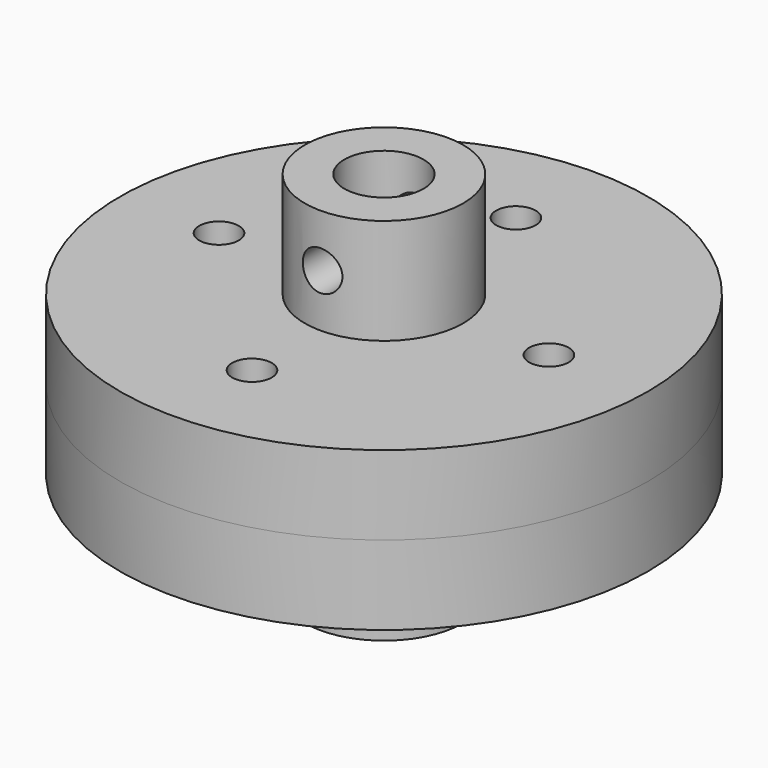
from build123d import *

# Parameters (mm, degrees)
F0_R          = 6
F0_R_2        = 3
F1_DEPTH      = 8
F2_R          = 20
F2_R_2        = 6
F3_DEPTH      = 6
F4_R          = 1.5
F5_DEPTH      = 20.001
F5_DEPTH_BACK = 20.001
F6_R          = 1.5
F7_DEPTH      = 14.0010001


with BuildPart() as f1:
    # F0 (on Top) → F1 (new body)
    with BuildSketch(Plane.XY):
        Circle(F0_R)
        Circle(F0_R_2, mode=Mode.SUBTRACT)
    extrude(amount=F1_DEPTH)

    # F4 (on Front) → F5 (cut, two sides)
    with BuildSketch(Plane.XZ) as f5_sk:
        with Locations((0, 4)):
            Circle(F4_R)
    extrude(amount=-F5_DEPTH, mode=Mode.SUBTRACT)
    extrude(f5_sk.sketch, amount=F5_DEPTH_BACK, mode=Mode.SUBTRACT)


with BuildPart() as f3:
    # F2 (on face) → F3 (new body)
    with BuildSketch(Plane.XY.offset(8)):
        Circle(F2_R)
        Circle(F2_R_2, mode=Mode.SUBTRACT)
    extrude(amount=F3_DEPTH)

    # F6 (on face) → F7 (cut, through all)
    with BuildSketch(Plane.XY.offset(14)):
        with Locations((0, 12.5)):
            Circle(F6_R)
        with Locations((0, -12.5)):
            Circle(F6_R)
        with Locations((-12.5, 0)):
            Circle(F6_R)
        with Locations((12.5, 0)):
            Circle(F6_R)
    extrude(amount=-F7_DEPTH, mode=Mode.SUBTRACT)

    # F8: F3, F1 across face


with BuildPart() as f3_1:
    add(f3.part)
    add(f3.part.mirror(Plane.XY.offset(14)))
    add(f1.part.mirror(Plane.XY.offset(14)))


solid = Compound([f1.part, f3_1.part])
